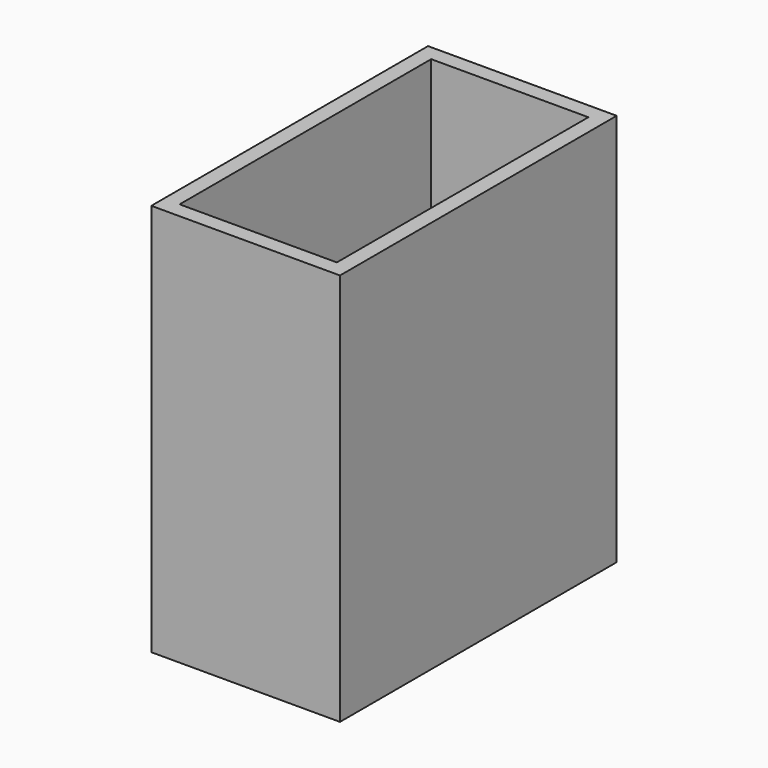
from build123d import *

# Parameters (mm, degrees)
F0_W     = 12
F0_H     = 22
F0_W_2   = 10
F0_H_2   = 20
F1_DEPTH = 5
F2_DEPTH = 25


with BuildPart() as f1:
    # F0 (on Top) → F1 (new body)
    with BuildSketch(Plane.XY):
        with Locations((-170.7817282314, -1.4250520304)):
            Rectangle(F0_W, F0_H)
        with Locations((-170.7817282314, -1.4250520304)):
            Rectangle(F0_W_2, F0_H_2, mode=Mode.SUBTRACT)
        with Locations((-170.7817282314, -1.4250520304)):
            Rectangle(F0_W_2, F0_H_2)
    extrude(amount=F1_DEPTH)

    # F0 (on Top) → F2 (join)
    with BuildSketch(Plane.XY):
        with Locations((-170.7817282314, -1.4250520304)):
            Rectangle(F0_W, F0_H)
        with Locations((-170.7817282314, -1.4250520304)):
            Rectangle(F0_W_2, F0_H_2, mode=Mode.SUBTRACT)
    extrude(amount=F2_DEPTH)


solid = f1.part
